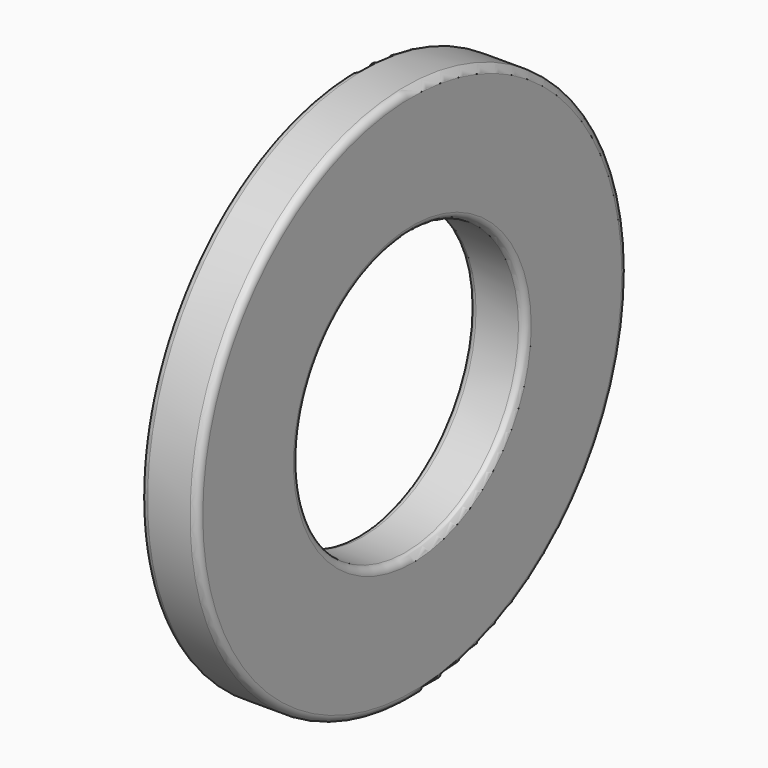
from build123d import *

# Parameters (mm, degrees)
F0_R     = 19
F0_R_2   = 10
F1_DEPTH = 2
F2_R     = 0.5


with BuildPart() as f1:
    # F0 (on Right) → F1 (new body, symmetric)
    with BuildSketch(Plane.YZ):
        Circle(F0_R)
        Circle(F0_R_2, mode=Mode.SUBTRACT)
    extrude(amount=F1_DEPTH, both=True)

    # F2
    f2_edges = [f1.edges().sort_by_distance(p)[0] for p in [
        (2, -10, 0),
        (-2, -10, 0),
        (2, -19, 0),
        (-2, -19, 0),
    ]]
    fillet(f2_edges, radius=F2_R)


solid = f1.part
